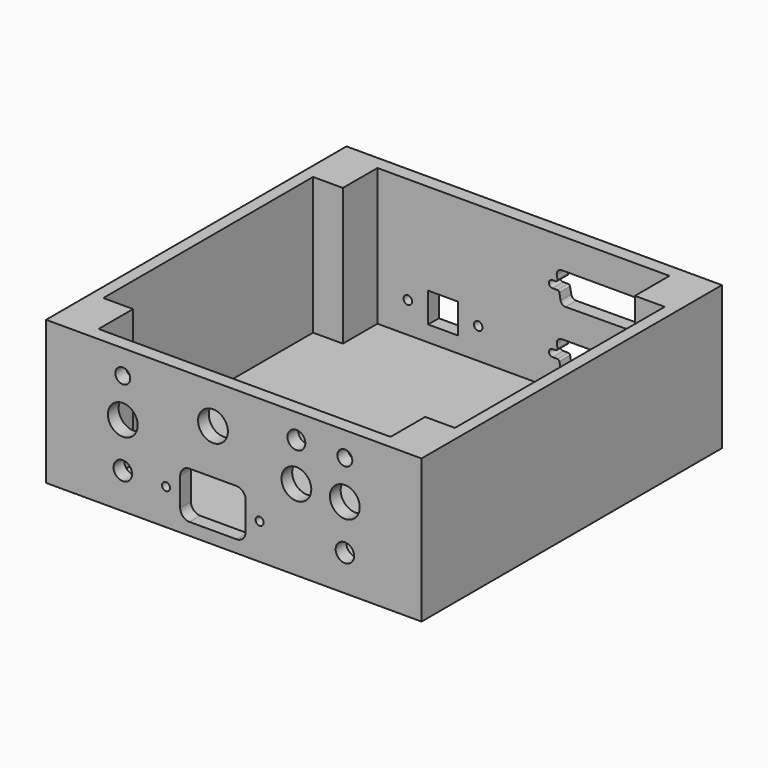
from build123d import *

# Parameters (mm, degrees)
F0_W      = 160.02
F0_H      = 160.02
F1_DEPTH  = 61.214
F3_DEPTH  = 58.42
F4_R      = 3.937
F5_DEPTH  = 6.35
F7_DEPTH  = 6.35
F8_R      = 1.7018
F9_DEPTH  = 6.35
F11_R     = 6.35
F12_DEPTH = 6.35
F13_R     = 3.175
F14_DEPTH = 6.35
F15_R     = 6.35
F16_DEPTH = 6.35
F17_R     = 6.35
F18_DEPTH = 6.35
F19_R     = 3.81
F20_DEPTH = 6.35
F23_DEPTH = 6.35
F24_W     = 12.7
F24_H     = 12.7
F24_R     = 1.8288
F25_DEPTH = 6.35


with BuildPart() as f1:
    # F0 (on Top) → F1 (new body)
    with BuildSketch(Plane.XY):
        with Locations((80.01, 80.01)):
            Rectangle(F0_W, F0_H)
    extrude(amount=-F1_DEPTH)

    # F2 (on face) → F3 (cut)
    with BuildSketch(Plane.XY):
        Polygon((142.24, 154.305), (17.78, 154.305), (17.78, 135.89), (5.08, 135.89), (5.08, 24.13), (17.78, 24.13), (17.78, 5.715), (142.24, 5.715), (142.24, 24.13), (154.94, 24.13), (154.94, 135.89), (142.24, 135.89), align=None)
    extrude(amount=-F3_DEPTH, mode=Mode.SUBTRACT)

    # F4 (on face) → F5 (cut)
    with BuildSketch(Plane.XZ):
        with Locations((32.7025, -45.974)):
            Circle(F4_R)
        with Locations((127.3429, -45.974)):
            Circle(F4_R)
    extrude(amount=-F5_DEPTH, mode=Mode.SUBTRACT)

    # F6 (on face) → F7 (cut)
    with BuildSketch(Plane.XZ):
        with BuildLine():
            Line((81.1022, -35.9791), (61.1378, -35.9791))
            ThreePointArc((61.1378, -35.9791), (58.318, -37.1471), (57.15, -39.9669))
            Line((57.15, -39.9669), (57.15, -51.9811))
            ThreePointArc((57.15, -51.9811), (58.318, -54.8009), (61.1378, -55.9689))
            Line((61.1378, -55.9689), (81.1022, -55.9689))
            ThreePointArc((81.1022, -55.9689), (83.922, -54.8009), (85.09, -51.9811))
            Line((85.09, -51.9811), (85.09, -39.9669))
            ThreePointArc((85.09, -39.9669), (83.922, -37.1471), (81.1022, -35.9791))
        make_face()
    extrude(amount=-F7_DEPTH, mode=Mode.SUBTRACT)

    # F8 (on face) → F9 (cut)
    with BuildSketch(Plane.XZ):
        with Locations((51.1302, -45.974)):
            Circle(F8_R)
        with Locations((91.0082, -45.974)):
            Circle(F8_R)
    extrude(amount=-F9_DEPTH, mode=Mode.SUBTRACT)

    # F11 (on face) → F12 (cut)
    with BuildSketch(Plane.XZ):
        with Locations((32.6898, -26.924)):
            Circle(F11_R)
        with Locations((127.3302, -26.924)):
            Circle(F11_R)
    extrude(amount=-F12_DEPTH, mode=Mode.SUBTRACT)

    # F13 (on face) → F14 (cut)
    with BuildSketch(Plane.XZ):
        with Locations((32.6898, -10.414)):
            Circle(F13_R)
        with Locations((127.3302, -10.414)):
            Circle(F13_R)
    extrude(amount=-F14_DEPTH, mode=Mode.SUBTRACT)

    # F15 (on face) → F16 (cut)
    with BuildSketch(Plane.XZ):
        with Locations((71.12, -16.764)):
            Circle(F15_R)
    extrude(amount=-F16_DEPTH, mode=Mode.SUBTRACT)

    # F17 (on face) → F18 (cut)
    with BuildSketch(Plane.XZ):
        with Locations((106.68, -26.924)):
            Circle(F17_R)
    extrude(amount=-F18_DEPTH, mode=Mode.SUBTRACT)

    # F19 (on face) → F20 (cut)
    with BuildSketch(Plane.XZ):
        with Locations((106.68, -10.414)):
            Circle(F19_R)
    extrude(amount=-F20_DEPTH, mode=Mode.SUBTRACT)

    # F22 (on face) → F23 (cut)
    with BuildSketch(Plane(origin=(0, 160.02, 0), x_dir=(-1, 0, 0), z_dir=(0, 1, 0))):
        with BuildLine():
            ThreePointArc((-139.419261, -17.800688), (-140.943261, -19.324688), (-139.419261, -20.848688))
            Line((-139.419261, -20.848688), (-137.312171, -20.848688))
            ThreePointArc((-137.312171, -20.848688), (-136.789713, -21.038847), (-136.511719, -21.520347))
            Line((-136.511719, -21.520347), (-136.061514, -24.07359))
            ThreePointArc((-136.061514, -24.07359), (-135.345498, -25.318244), (-133.998495, -25.815663))
            Line((-133.998495, -25.815663), (-97.890658, -26.040951))
            ThreePointArc((-97.890658, -26.040951), (-96.527424, -25.551986), (-95.801333, -24.298877))
            Line((-95.801333, -24.298877), (-95.311403, -21.520347))
            ThreePointArc((-95.311403, -21.520347), (-95.033409, -21.038847), (-94.510951, -20.848688))
            Line((-94.510951, -20.848688), (-92.378461, -20.848688))
            ThreePointArc((-92.378461, -20.848688), (-90.854461, -19.324688), (-92.378461, -17.800688))
            Line((-92.378461, -17.800688), (-93.686869, -17.800688))
            ThreePointArc((-93.686869, -17.800688), (-94.30951, -17.510346), (-94.487321, -16.846747))
            Line((-94.487321, -16.846747), (-94.211744, -15.283873))
            ThreePointArc((-94.211744, -15.283873), (-94.672941, -13.562664), (-96.287916, -12.809588))
            Line((-96.287916, -12.809588), (-135.535206, -12.809588))
            ThreePointArc((-135.535206, -12.809588), (-137.150181, -13.562664), (-137.611378, -15.283873))
            Line((-137.611378, -15.283873), (-137.335801, -16.846747))
            ThreePointArc((-137.335801, -16.846747), (-137.513612, -17.510346), (-138.136253, -17.800688))
            Line((-138.136253, -17.800688), (-139.419261, -17.800688))
        make_face()
        with BuildLine():
            ThreePointArc((-139.446, -43.6499), (-140.97, -45.1739), (-139.446, -46.6979))
            Line((-139.446, -46.6979), (-137.33891, -46.6979))
            ThreePointArc((-137.33891, -46.6979), (-136.816452, -46.888059), (-136.538458, -47.369559))
            Line((-136.538458, -47.369559), (-136.088253, -49.922801))
            ThreePointArc((-136.088253, -49.922801), (-135.372237, -51.167456), (-134.025234, -51.664875))
            Line((-134.025234, -51.664875), (-97.917397, -51.890162))
            ThreePointArc((-97.917397, -51.890162), (-96.554163, -51.401198), (-95.828072, -50.148088))
            Line((-95.828072, -50.148088), (-95.338142, -47.369559))
            ThreePointArc((-95.338142, -47.369559), (-95.060148, -46.888059), (-94.53769, -46.6979))
            Line((-94.53769, -46.6979), (-92.4052, -46.6979))
            ThreePointArc((-92.4052, -46.6979), (-90.8812, -45.1739), (-92.4052, -43.6499))
            Line((-92.4052, -43.6499), (-93.713608, -43.6499))
            ThreePointArc((-93.713608, -43.6499), (-94.336249, -43.359558), (-94.51406, -42.695959))
            Line((-94.51406, -42.695959), (-94.238483, -41.133085))
            ThreePointArc((-94.238483, -41.133085), (-94.69968, -39.411875), (-96.314655, -38.6588))
            Line((-96.314655, -38.6588), (-135.561945, -38.6588))
            ThreePointArc((-135.561945, -38.6588), (-137.17692, -39.411875), (-137.638117, -41.133085))
            Line((-137.638117, -41.133085), (-137.36254, -42.695959))
            ThreePointArc((-137.36254, -42.695959), (-137.540351, -43.359558), (-138.162992, -43.6499))
            Line((-138.162992, -43.6499), (-139.446, -43.6499))
        make_face()
    extrude(amount=-F23_DEPTH, mode=Mode.SUBTRACT)

    # F24 (on face) → F25 (cut)
    with BuildSketch(Plane(origin=(0, 160.02, 0), x_dir=(-1, 0, 0), z_dir=(0, 1, 0))):
        with Locations((-45.72, -45.339)):
            Rectangle(F24_W, F24_H)
        with Locations((-60.706, -45.339)):
            Circle(F24_R)
        with Locations((-30.7086, -45.339)):
            Circle(F24_R)
    extrude(amount=-F25_DEPTH, mode=Mode.SUBTRACT)


solid = f1.part
